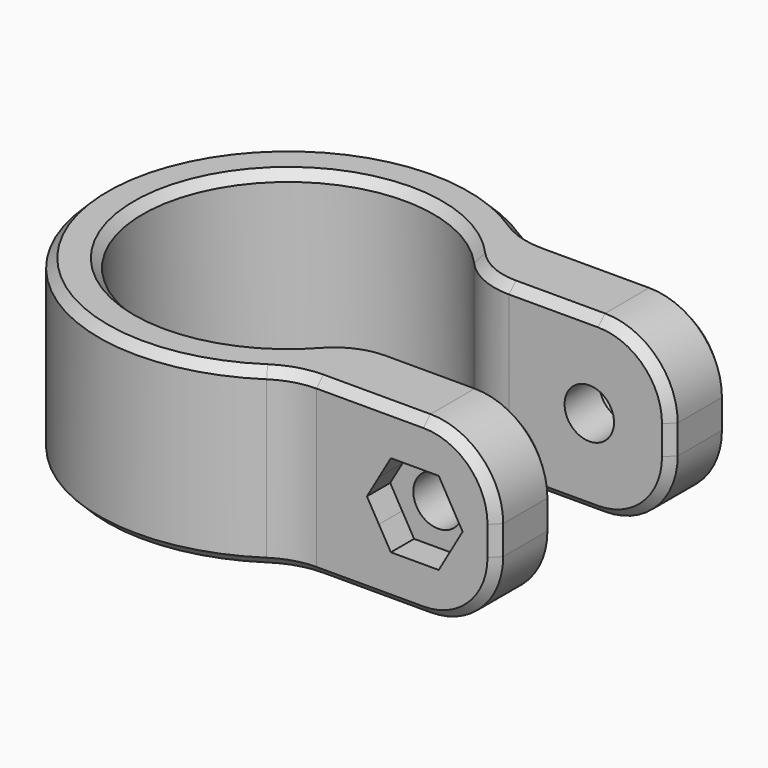
from build123d import *

# Parameters (mm, degrees)
F1_DEPTH = 12
F2_R     = 5
F3_R     = 5
F4_SIZE  = 0.6
F5_R     = 1.7
F6_DEPTH = 23.001
F7_DEPTH = 2
F8_START = -18
F8_DEPTH = 2


with BuildPart() as f1:
    # F0 (on Top) → F1 (new body)
    with BuildSketch(Plane.XY):
        with BuildLine():
            ThreePointArc((8.3066238629, 5.5677643628), (8.4881874106, 5.2868397443), (8.6602540378, 5))
            Line((8.6602540378, 5), (12, 5))
            ThreePointArc((12, 5), (10.4565645973, 7.7240052319), (8.3066238629, 10))
            Line((8.3066238629, 10), (8.3066238629, 5.5677643628))
        make_face()
        with BuildLine():
            ThreePointArc((8.3066238629, 10), (10.4565645973, 7.7240052319), (12, 5))
            Line((12, 5), (22.3066238629, 5))
            Line((22.3066238629, 5), (22.3066238629, 10))
            Line((22.3066238629, 10), (8.3066238629, 10))
        make_face()
        with BuildLine():
            Line((22.3066238629, -5), (12, -5))
            ThreePointArc((12, -5), (10.4565645973, -7.7240052319), (8.3066238629, -10))
            Line((8.3066238629, -10), (22.3066238629, -10))
            Line((22.3066238629, -10), (22.3066238629, -5))
        make_face()
        with BuildLine():
            ThreePointArc((8.3066238629, -5.5677643628), (-10, 0), (8.3066238629, 5.5677643628))
            Line((8.3066238629, 5.5677643628), (8.3066238629, 10))
            ThreePointArc((8.3066238629, 10), (-13, 0), (8.3066238629, -10))
            Line((8.3066238629, -10), (8.3066238629, -5.5677643628))
        make_face()
        with BuildLine():
            ThreePointArc((8.3066238629, 5.5677643628), (8.4881874106, 5.2868397443), (8.6602540378, 5))
            Line((8.6602540378, 5), (12, 5))
            ThreePointArc((12, 5), (10.4565645973, 7.7240052319), (8.3066238629, 10))
            Line((8.3066238629, 10), (8.3066238629, 5.5677643628))
        make_face()
        with BuildLine():
            Line((12, -5), (8.6602540378, -5))
            ThreePointArc((8.6602540378, -5), (8.4881874106, -5.2868397443), (8.3066238629, -5.5677643628))
            Line((8.3066238629, -5.5677643628), (8.3066238629, -10))
            ThreePointArc((8.3066238629, -10), (10.4565645973, -7.7240052319), (12, -5))
        make_face()
    extrude(amount=F1_DEPTH)

    # F2
    f2_edges = [f1.edges().sort_by_distance(p)[0] for p in [
        (8.306624, -10, 6),
        (8.306624, 10, 6),
        (8.660254, -5, 6),
        (8.660254, 5, 6),
    ]]
    fillet(f2_edges, radius=F2_R)

    # F3
    f3_edges = [f1.edges().sort_by_distance(p)[0] for p in [
        (22.306624, -7.5, 12),
        (22.306624, 7.5, 12),
        (22.306624, -7.5, 0),
        (22.306624, 7.5, 0),
    ]]
    fillet(f3_edges, radius=F3_R)

    # F4
    f4_edges = [f1.edges().sort_by_distance(p)[0] for p in [
        (-10, 0, 12),
        (-13, 0, 12),
        (-13, 0, 0),
        (-10, 0, 0),
    ]]
    chamfer(f4_edges, length=F4_SIZE)

    # F5 (on face) → F6 (cut, through all)
    with BuildSketch(Plane.XZ.offset(10)):
        with Locations((16.7066238629, 6)):
            Circle(F5_R)
    extrude(amount=-F6_DEPTH, mode=Mode.SUBTRACT)

    # F5 (on face) → F7 (cut)
    with BuildSketch(Plane.XZ.offset(10)):
        with BuildLine():
            ThreePointArc((19.1747962235, 4.5749999304), (19.4595124574, 5.2623656827), (19.5566238629, 6))
            ThreePointArc((19.5566238629, 6), (19.4595124887, 6.7376342007), (19.1747963443, 7.4249998605))
            ThreePointArc((19.1747963443, 7.4249998605), (18.1316239327, 8.4681723605), (16.7066238629, 8.85))
            ThreePointArc((16.7066238629, 8.85), (15.2816238977, 8.4681724209), (14.2384515023, 7.4250000696))
            ThreePointArc((14.2384515023, 7.4250000696), (13.8566238629, 6.0000000373), (14.238451465, 4.574999995))
            ThreePointArc((14.238451465, 4.574999995), (15.2816238654, 3.5318275978), (16.7066238629, 3.15))
            ThreePointArc((16.7066238629, 3.15), (18.1316238281, 3.5318275791), (19.1747962235, 4.5749999304))
        make_face()
        with Locations((16.7066238629, 6)):
            Circle(F5_R, mode=Mode.SUBTRACT)
        with BuildLine():
            Line((15.0611755957, 3.15), (16.7066238629, 3.15))
            ThreePointArc((16.7066238629, 3.15), (15.2816238654, 3.5318275978), (14.238451465, 4.574999995))
            Line((14.238451465, 4.574999995), (15.0611755957, 3.15))
        make_face()
        with BuildLine():
            Line((18.3520721301, 3.15), (19.1747962235, 4.5749999304))
            ThreePointArc((19.1747962235, 4.5749999304), (18.1316238281, 3.5318275791), (16.7066238629, 3.15))
            Line((16.7066238629, 3.15), (18.3520721301, 3.15))
        make_face()
        with BuildLine():
            ThreePointArc((19.1747963443, 7.4249998605), (19.4595124887, 6.7376342007), (19.5566238629, 6))
            ThreePointArc((19.5566238629, 6), (19.4595124574, 5.2623656827), (19.1747962235, 4.5749999304))
            Line((19.1747962235, 4.5749999304), (19.9975203973, 6))
            Line((19.9975203973, 6), (19.1747963443, 7.4249998605))
        make_face()
        with BuildLine():
            ThreePointArc((16.7066238629, 8.85), (18.1316239327, 8.4681723605), (19.1747963443, 7.4249998605))
            Line((19.1747963443, 7.4249998605), (18.3520721301, 8.85))
            Line((18.3520721301, 8.85), (16.7066238629, 8.85))
        make_face()
        with BuildLine():
            ThreePointArc((14.238451465, 4.574999995), (13.8566238629, 6.0000000373), (14.2384515023, 7.4250000696))
            Line((14.2384515023, 7.4250000696), (13.4157273285, 6))
            Line((13.4157273285, 6), (14.238451465, 4.574999995))
        make_face()
        with BuildLine():
            ThreePointArc((14.2384515023, 7.4250000696), (15.2816238977, 8.4681724209), (16.7066238629, 8.85))
            Line((16.7066238629, 8.85), (15.0611755957, 8.85))
            Line((15.0611755957, 8.85), (14.2384515023, 7.4250000696))
        make_face()
    extrude(amount=-F7_DEPTH, mode=Mode.SUBTRACT)

    # F5 (on face) → F8 (cut)
    with BuildSketch(Plane.XZ.offset(10).offset(F8_START)):
        with BuildLine():
            ThreePointArc((19.1747962235, 4.5749999304), (19.4595124574, 5.2623656827), (19.5566238629, 6))
            ThreePointArc((19.5566238629, 6), (19.4595124887, 6.7376342007), (19.1747963443, 7.4249998605))
            ThreePointArc((19.1747963443, 7.4249998605), (18.1316239327, 8.4681723605), (16.7066238629, 8.85))
            ThreePointArc((16.7066238629, 8.85), (15.2816238977, 8.4681724209), (14.2384515023, 7.4250000696))
            ThreePointArc((14.2384515023, 7.4250000696), (13.8566238629, 6.0000000373), (14.238451465, 4.574999995))
            ThreePointArc((14.238451465, 4.574999995), (15.2816238654, 3.5318275978), (16.7066238629, 3.15))
            ThreePointArc((16.7066238629, 3.15), (18.1316238281, 3.5318275791), (19.1747962235, 4.5749999304))
        make_face()
        with Locations((16.7066238629, 6)):
            Circle(F5_R, mode=Mode.SUBTRACT)
    extrude(amount=-F8_DEPTH, mode=Mode.SUBTRACT)


solid = f1.part
